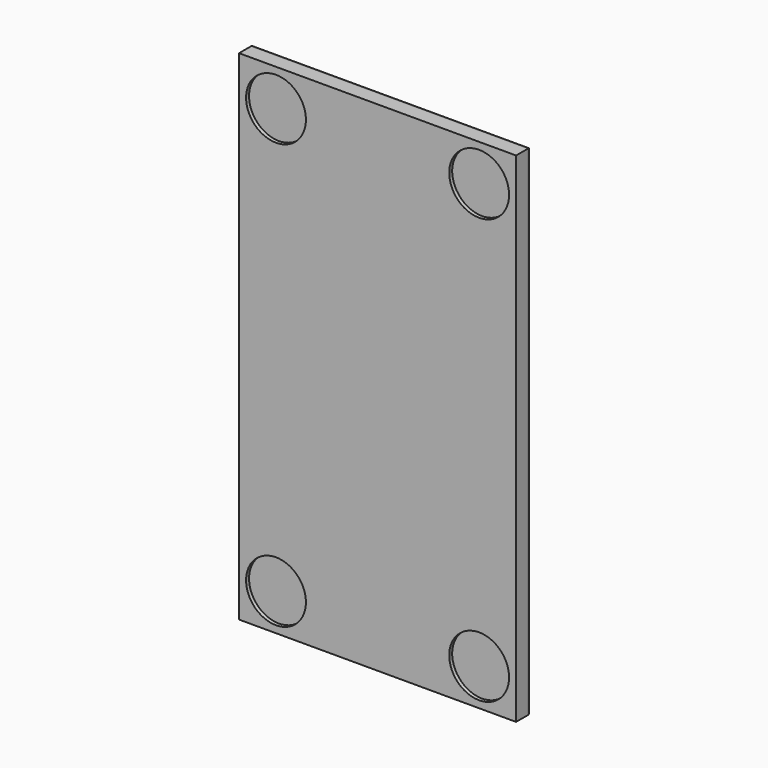
from build123d import *

# Parameters (mm, degrees)
SKETCH032_W     = 64
SKETCH032_H     = 124
PAD019_DEPTH    = 5
SKETCH033_W     = 75
SKETCH033_H     = 135
PAD020_DEPTH    = 5
FILLET001_R     = 1
SKETCH034_R     = 8.1
POCKET002_DEPTH = 1


with BuildPart() as part:
    # Sketch032 → Pad019 (new body)
    with BuildSketch(Plane.XZ):
        with Locations((0, 45)):
            Rectangle(SKETCH032_W, SKETCH032_H)
    extrude(amount=-PAD019_DEPTH)

    # Sketch033 → Pad020 (join)
    with BuildSketch(Plane.XZ):
        with Locations((0, 45)):
            Rectangle(SKETCH033_W, SKETCH033_H)
    extrude(amount=PAD020_DEPTH)

    # Fillet001
    fillet001_edges = [part.edges().sort_by_distance(p)[0] for p in [
        (0, 0, -22.5),
        (-37.5, 0, 45),
        (37.5, 0, 45),
        (32, 5, 45),
        (0, 5, -17),
        (0, 0, 112.5),
        (0, 5, 107),
        (-32, 5, 45),
    ]]
    fillet(fillet001_edges, radius=FILLET001_R)

    # Sketch034 (on Face19 of Fillet001) → Pocket002 (cut)
    with BuildSketch(Plane.XZ.offset(5)):
        with Locations((-27.5, 102.5)):
            Circle(SKETCH034_R)
        with Locations((27.5, 102.5)):
            Circle(SKETCH034_R)
        with Locations((-27.5, -12.5)):
            Circle(SKETCH034_R)
        with Locations((27.5, -12.5)):
            Circle(SKETCH034_R)
    extrude(amount=-POCKET002_DEPTH, mode=Mode.SUBTRACT)


with BuildPart() as part_1:
    # Body014 placement: moved
    add(part.part.moved(Location((0, -63, 0))))


solid = part_1.part
